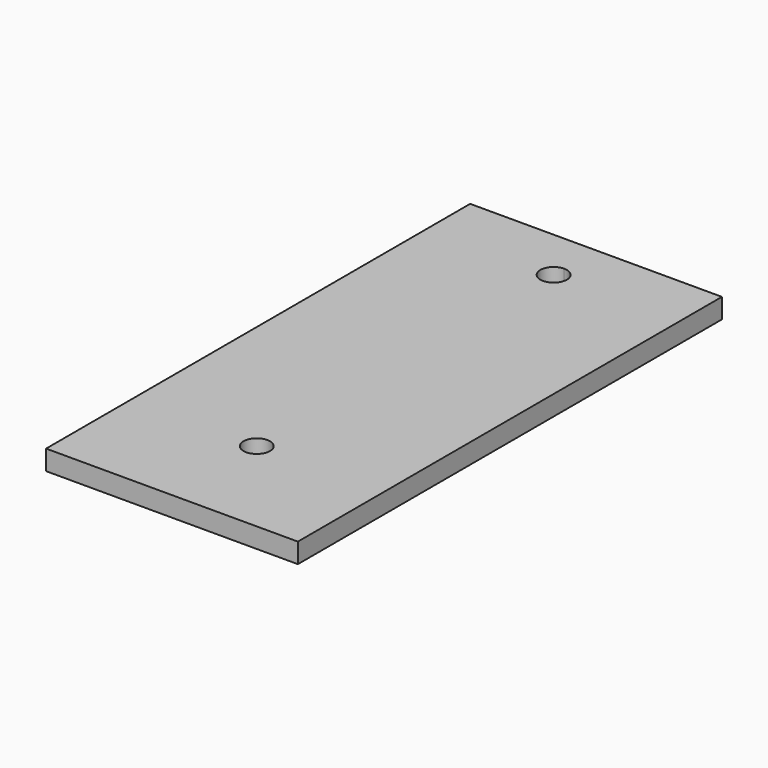
from build123d import *

# Parameters (mm, degrees)
F0_W     = 241.3
F0_H     = 508
F1_DEPTH = 19.05
F3_DEPTH = 19.051


with BuildPart() as f1:
    # F0 (on Top) → F1 (new body)
    with BuildSketch(Plane.XY):
        Rectangle(F0_W, F0_H)
    extrude(amount=F1_DEPTH)

    # F2 (on face) → F3 (cut, through all)
    with BuildSketch(Plane.XY.offset(19.05)):
        with BuildLine():
            ThreePointArc((12.7, 203.2), (8.980256, 212.180256), (0, 215.9))
            ThreePointArc((0, 215.9), (-8.980256, 194.219744), (12.7, 203.2))
        make_face()
        with BuildLine():
            ThreePointArc((12.7, -152.4), (-8.980256, -143.419744), (0, -165.1))
            ThreePointArc((0, -165.1), (8.980256, -161.380256), (12.7, -152.4))
        make_face()
    extrude(amount=-F3_DEPTH, mode=Mode.SUBTRACT)


solid = f1.part
